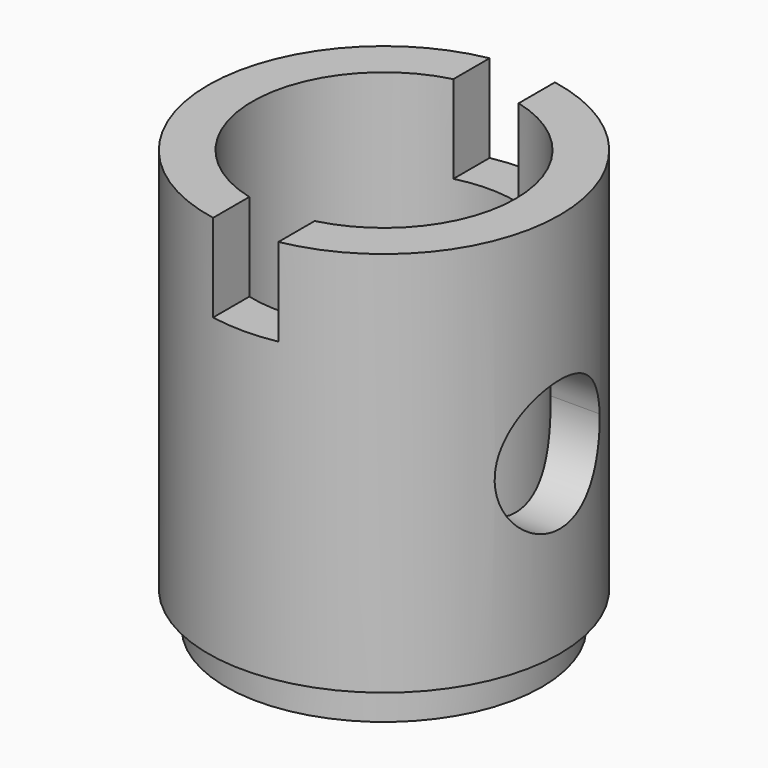
from build123d import *

# Parameters (mm, degrees)
F0_R     = 6.3627
F0_R_2   = 4.7625
F1_DEPTH = 15.24
F2_R     = 6.3627
F2_R_2   = 5.715
F3_DEPTH = 1.27
F6_DEPTH = 5.08
F8_DEPTH = 3.175


with BuildPart() as f1:
    # F0 (on Top) → F1 (new body)
    with BuildSketch(Plane.XY):
        Circle(F0_R)
        Circle(F0_R_2, mode=Mode.SUBTRACT)
    extrude(amount=F1_DEPTH)

    # F2 (on face) → F3 (cut)
    with BuildSketch(Plane(origin=(0, 0, 0), x_dir=(1, 0, 0), z_dir=(0, 0, -1))):
        Circle(F2_R)
        Circle(F2_R_2, mode=Mode.SUBTRACT)
    extrude(amount=-F3_DEPTH, mode=Mode.SUBTRACT)

    # F5 (on offset) → F6 (cut)
    with BuildSketch(Plane.YZ.offset(7.9375)):
        with BuildLine():
            ThreePointArc((2.3685727212, 7.7932433957), (0, 9.9949), (-2.3685727212, 7.7932433957))
            ThreePointArc((-2.3685727212, 7.7932433957), (0, 5.2451), (2.3685727212, 7.7932433957))
        make_face()
    extrude(amount=-F6_DEPTH, mode=Mode.SUBTRACT)

    # F7 (on face) → F8 (cut)
    with BuildSketch(Plane.XY.offset(15.24)):
        with BuildLine():
            ThreePointArc((1.1811, 6.2521159682), (0, 6.3627), (-1.1811, 6.2521159682))
            Line((-1.1811, 6.2521159682), (-1.1811, 4.6137196534))
            ThreePointArc((-1.1811, 4.6137196534), (0, 4.7625), (1.1811, 4.6137196534))
            Line((1.1811, 4.6137196534), (1.1811, 6.2521159682))
        make_face()
        with BuildLine():
            Line((-1.1811, -4.6137196534), (-1.1811, -6.2521159682))
            ThreePointArc((-1.1811, -6.2521159682), (0, -6.3627), (1.1811, -6.2521159682))
            Line((1.1811, -6.2521159682), (1.1811, -4.6137196534))
            ThreePointArc((1.1811, -4.6137196534), (0, -4.7625), (-1.1811, -4.6137196534))
        make_face()
    extrude(amount=-F8_DEPTH, mode=Mode.SUBTRACT)


solid = f1.part
